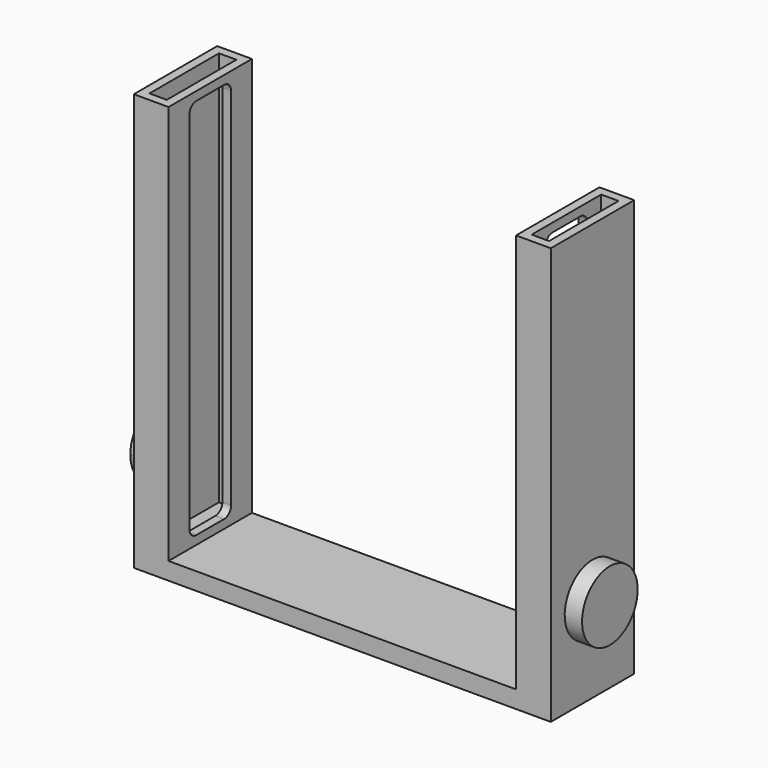
from build123d import *

# Parameters (mm, degrees)
F0_W          = 25.4
F0_H          = 127
F1_DEPTH      = 31.75
F0_W_2        = 50.8
F0_H_2        = 152.4
F2_DEPTH      = 609.6
F0_W_3        = 508
F3_DEPTH      = 25.4
F4_DEPTH      = 609.6
F5_DEPTH      = 31.75
F6_W          = 76.2
F6_H          = 558.8
F7_DEPTH      = 25.4
F7_DEPTH_BACK = 533.4
F8_R          = 12.7
F10_DEPTH     = 25.4
F12_DEPTH     = 25.4


with BuildPart() as f1:
    # F0 (on Top) → F1 (new body)
    with BuildSketch(Plane.XY):
        with Locations((-80.5362447441, -59.7925535809)):
            Rectangle(F0_W, F0_H)
    extrude(amount=F1_DEPTH)

    # F0 (on Top) → F2 (join)
    with BuildSketch(Plane.XY):
        with Locations((-80.5362447441, -59.7925535809)):
            Rectangle(F0_W_2, F0_H_2)
        with Locations((-80.5362447441, -59.7925535809)):
            Rectangle(F0_W, F0_H, mode=Mode.SUBTRACT)
    extrude(amount=F2_DEPTH)

    # F0 (on Top) → F3 (join)
    with BuildSketch(Plane.XY):
        with Locations((198.8637552559, -59.7925535809)):
            Rectangle(F0_W_3, F0_H_2)
    extrude(amount=F3_DEPTH)

    # F0 (on Top) → F4 (join)
    with BuildSketch(Plane.XY):
        with Locations((478.2637552559, -59.7925535809)):
            Rectangle(F0_W_2, F0_H_2)
        with Locations((478.2637552559, -59.7925535809)):
            Rectangle(F0_W, F0_H, mode=Mode.SUBTRACT)
    extrude(amount=F4_DEPTH)

    # F0 (on Top) → F5 (join)
    with BuildSketch(Plane.XY):
        with Locations((478.2637552559, -59.7925535809)):
            Rectangle(F0_W, F0_H)
    extrude(amount=F5_DEPTH)

    # F6 (on face) → F7 (cut, two sides)
    with BuildSketch(Plane(origin=(452.8637552559, 0, 0), x_dir=(0, -1, 0), z_dir=(-1, 0, 0))) as f7_sk:
        with Locations((59.7925535809, 317.5)):
            Rectangle(F6_W, F6_H)
    extrude(amount=-F7_DEPTH, mode=Mode.SUBTRACT)
    extrude(f7_sk.sketch, amount=F7_DEPTH_BACK, mode=Mode.SUBTRACT)

    # F8
    f8_edges = [f1.edges().sort_by_distance(p)[0] for p in [
        (459.213755, -97.892554, 38.1),
        (459.213755, -21.692554, 38.1),
        (459.213755, -97.892554, 596.9),
        (459.213755, -21.692554, 596.9),
        (-61.486245, -21.692554, 38.1),
        (-61.486245, -21.692554, 596.9),
        (-61.486245, -97.892554, 596.9),
        (-61.486245, -97.892554, 38.1),
    ]]
    fillet(f8_edges, radius=F8_R)

    # F9 (on face) → F10 (join)
    with BuildSketch(Plane(origin=(-105.9362447441, 0, 0), x_dir=(0, -1, 0), z_dir=(-1, 0, 0))):
        with BuildLine():
            ThreePointArc((59.7925535809, 76.2), (95.7135780651, 91.0789755157), (110.5925535809, 127))
            ThreePointArc((110.5925535809, 127), (23.8715290966, 162.9210244843), (59.7925535809, 76.2))
        make_face()
    extrude(amount=F10_DEPTH)

    # F11 (on face) → F12 (join)
    with BuildSketch(Plane.YZ.offset(503.6637552559)):
        with BuildLine():
            ThreePointArc((-8.9925535809, 127), (-95.7135780651, 162.9210244843), (-59.7925535809, 76.2))
            ThreePointArc((-59.7925535809, 76.2), (-23.8715290966, 91.0789755157), (-8.9925535809, 127))
        make_face()
    extrude(amount=F12_DEPTH)


solid = f1.part
